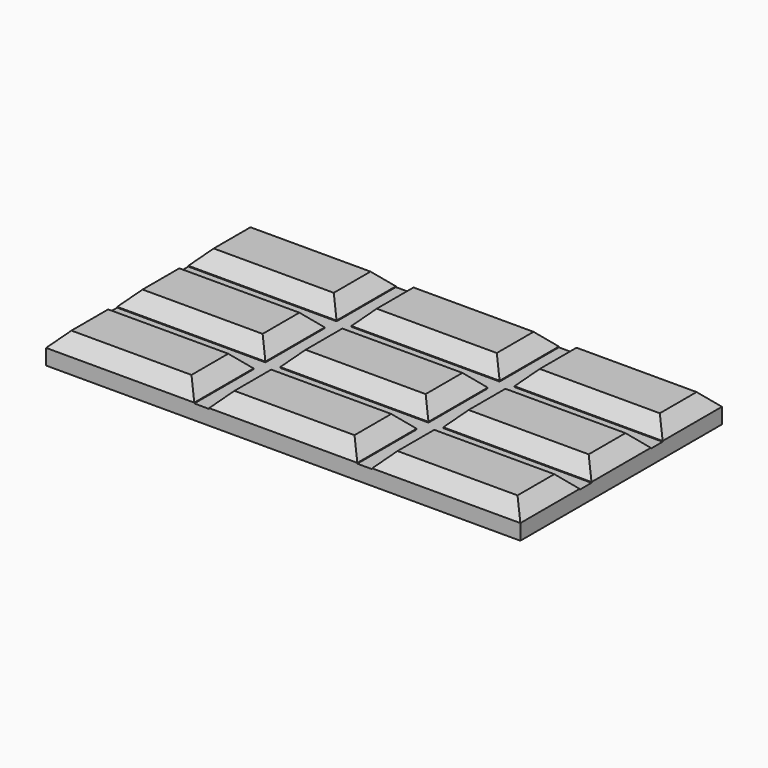
from build123d import *

# Parameters (mm, degrees)
BOX003_W        = 20
BOX003_H        = 10
BOX003_DEPTH    = 2
CHAMFER003_SIZE = 1.9
BOX004_W        = 20
BOX004_H        = 10
BOX004_DEPTH    = 2
CHAMFER004_SIZE = 1.9
BOX005_W        = 20
BOX005_H        = 10
BOX005_DEPTH    = 2
CHAMFER005_SIZE = 1.9
BOX006_W        = 20
BOX006_H        = 10
BOX006_DEPTH    = 2
CHAMFER006_SIZE = 1.9
BOX007_W        = 20
BOX007_H        = 10
BOX007_DEPTH    = 2
CHAMFER007_SIZE = 1.9
BOX008_W        = 20
BOX008_H        = 10
BOX008_DEPTH    = 2
CHAMFER008_SIZE = 1.9
BOX009_W        = 64
BOX009_H        = 34
BOX009_DEPTH    = 2
BOX002_W        = 20
BOX002_H        = 10
BOX002_DEPTH    = 2
CHAMFER002_SIZE = 1.9
BOX001_W        = 20
BOX001_H        = 10
BOX001_DEPTH    = 2
CHAMFER001_SIZE = 1.9
BOX_W           = 20
BOX_H           = 10
BOX_DEPTH       = 2
CHAMFER_SIZE    = 1.9


with BuildPart() as chamfer003:
    # Box003 → Box003 (new body)
    with BuildSketch(Plane.XY):
        with Locations((10, 5)):
            Rectangle(BOX003_W, BOX003_H)
    extrude(amount=BOX003_DEPTH)

    # Chamfer003
    chamfer003_edges = [chamfer003.edges().sort_by_distance(p)[0] for p in [
        (0, 5, 2),
        (20, 5, 2),
        (10, 0, 2),
        (10, 10, 2),
    ]]
    chamfer(chamfer003_edges, length=CHAMFER003_SIZE)


with BuildPart() as chamfer003_1:
    # Chamfer003 placement: moved
    add(chamfer003.part.moved(Location((0, 12, 0))))


with BuildPart() as chamfer004:
    # Box004 → Box004 (new body)
    with BuildSketch(Plane.XY):
        with Locations((10, 5)):
            Rectangle(BOX004_W, BOX004_H)
    extrude(amount=BOX004_DEPTH)

    # Chamfer004
    chamfer004_edges = [chamfer004.edges().sort_by_distance(p)[0] for p in [
        (0, 5, 2),
        (20, 5, 2),
        (10, 0, 2),
        (10, 10, 2),
    ]]
    chamfer(chamfer004_edges, length=CHAMFER004_SIZE)


with BuildPart() as chamfer004_1:
    # Chamfer004 placement: moved
    add(chamfer004.part.moved(Location((22, 12, 0))))


with BuildPart() as chamfer005:
    # Box005 → Box005 (new body)
    with BuildSketch(Plane.XY):
        with Locations((10, 5)):
            Rectangle(BOX005_W, BOX005_H)
    extrude(amount=BOX005_DEPTH)

    # Chamfer005
    chamfer005_edges = [chamfer005.edges().sort_by_distance(p)[0] for p in [
        (0, 5, 2),
        (20, 5, 2),
        (10, 0, 2),
        (10, 10, 2),
    ]]
    chamfer(chamfer005_edges, length=CHAMFER005_SIZE)


with BuildPart() as chamfer005_1:
    # Chamfer005 placement: moved
    add(chamfer005.part.moved(Location((44, 12, 0))))


with BuildPart() as chamfer006:
    # Box006 → Box006 (new body)
    with BuildSketch(Plane.XY):
        with Locations((10, 5)):
            Rectangle(BOX006_W, BOX006_H)
    extrude(amount=BOX006_DEPTH)

    # Chamfer006
    chamfer006_edges = [chamfer006.edges().sort_by_distance(p)[0] for p in [
        (0, 5, 2),
        (20, 5, 2),
        (10, 0, 2),
        (10, 10, 2),
    ]]
    chamfer(chamfer006_edges, length=CHAMFER006_SIZE)


with BuildPart() as chamfer006_1:
    # Chamfer006 placement: moved
    add(chamfer006.part.moved(Location((0, 24, 0))))


with BuildPart() as chamfer007:
    # Box007 → Box007 (new body)
    with BuildSketch(Plane.XY):
        with Locations((10, 5)):
            Rectangle(BOX007_W, BOX007_H)
    extrude(amount=BOX007_DEPTH)

    # Chamfer007
    chamfer007_edges = [chamfer007.edges().sort_by_distance(p)[0] for p in [
        (0, 5, 2),
        (20, 5, 2),
        (10, 0, 2),
        (10, 10, 2),
    ]]
    chamfer(chamfer007_edges, length=CHAMFER007_SIZE)


with BuildPart() as chamfer007_1:
    # Chamfer007 placement: moved
    add(chamfer007.part.moved(Location((22, 24, 0))))


with BuildPart() as chamfer008:
    # Box008 → Box008 (new body)
    with BuildSketch(Plane.XY):
        with Locations((10, 5)):
            Rectangle(BOX008_W, BOX008_H)
    extrude(amount=BOX008_DEPTH)

    # Chamfer008
    chamfer008_edges = [chamfer008.edges().sort_by_distance(p)[0] for p in [
        (0, 5, 2),
        (20, 5, 2),
        (10, 0, 2),
        (10, 10, 2),
    ]]
    chamfer(chamfer008_edges, length=CHAMFER008_SIZE)


with BuildPart() as chamfer008_1:
    # Chamfer008 placement: moved
    add(chamfer008.part.moved(Location((44, 24, 0))))


with BuildPart() as cubo009:
    # Box009 → Box009 (new body)
    with BuildSketch(Plane.XY.offset(-2)):
        with Locations((32, 17)):
            Rectangle(BOX009_W, BOX009_H)
    extrude(amount=BOX009_DEPTH)


with BuildPart() as chamfer002:
    # Box002 → Box002 (new body)
    with BuildSketch(Plane.XY):
        with Locations((10, 5)):
            Rectangle(BOX002_W, BOX002_H)
    extrude(amount=BOX002_DEPTH)

    # Chamfer002
    chamfer002_edges = [chamfer002.edges().sort_by_distance(p)[0] for p in [
        (0, 5, 2),
        (20, 5, 2),
        (10, 0, 2),
        (10, 10, 2),
    ]]
    chamfer(chamfer002_edges, length=CHAMFER002_SIZE)


with BuildPart() as chamfer002_1:
    # Chamfer002 placement: moved
    add(chamfer002.part.moved(Location((44, 0, 0))))


with BuildPart() as chamfer001:
    # Box001 → Box001 (new body)
    with BuildSketch(Plane.XY):
        with Locations((10, 5)):
            Rectangle(BOX001_W, BOX001_H)
    extrude(amount=BOX001_DEPTH)

    # Chamfer001
    chamfer001_edges = [chamfer001.edges().sort_by_distance(p)[0] for p in [
        (0, 5, 2),
        (20, 5, 2),
        (10, 0, 2),
        (10, 10, 2),
    ]]
    chamfer(chamfer001_edges, length=CHAMFER001_SIZE)


with BuildPart() as chamfer001_1:
    # Chamfer001 placement: moved
    add(chamfer001.part.moved(Location((22, 0, 0))))


with BuildPart() as fusion:
    # Box → Box (new body)
    with BuildSketch(Plane.XY):
        with Locations((10, 5)):
            Rectangle(BOX_W, BOX_H)
    extrude(amount=BOX_DEPTH)

    # Chamfer
    chamfer_edges = [fusion.edges().sort_by_distance(p)[0] for p in [
        (0, 5, 2),
        (20, 5, 2),
        (10, 0, 2),
        (10, 10, 2),
    ]]
    chamfer(chamfer_edges, length=CHAMFER_SIZE)

    # Fusion: union Chamfer003, Chamfer004, Chamfer005, Chamfer006, Chamfer007, Chamfer008, Cubo009, Chamfer002, Chamfer001
    add(chamfer003_1.part)
    add(chamfer004_1.part)
    add(chamfer005_1.part)
    add(chamfer006_1.part)
    add(chamfer007_1.part)
    add(chamfer008_1.part)
    add(cubo009.part)
    add(chamfer002_1.part)
    add(chamfer001_1.part)


solid = fusion.part
